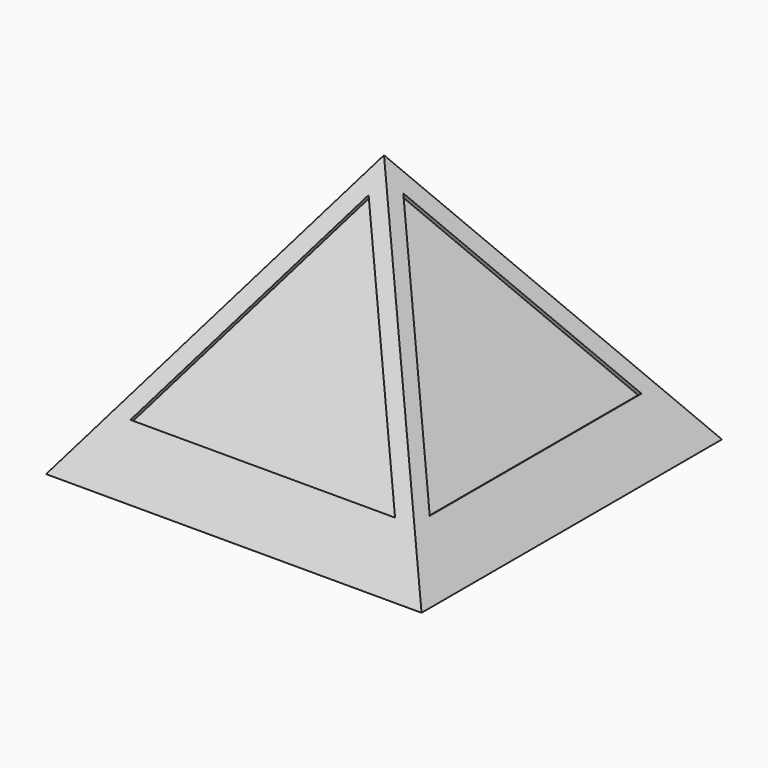
from build123d import *

# Parameters (mm, degrees)
F3_W      = 90
F3_H      = 90
F8_W      = 82
F8_H      = 82
F14_DEPTH = 1
F15_START = -2
F15_DEPTH = 3
F17_DEPTH = 1
F18_START = -2
F18_DEPTH = 3
F20_DEPTH = 1
F21_START = -2
F21_DEPTH = 3
F23_DEPTH = 1
F24_START = -2
F24_DEPTH = 3


with BuildPart() as f6:
    # F3 (on Top) → F6 section 0
    with BuildSketch(Plane.XY, mode=Mode.PRIVATE) as f6_s0:
        Rectangle(F3_W, F3_H)
    loft([f6_s0.sketch, Vertex(0, 0, 63.6396103068)])

    # F8 (on Top) → F10 section 0
    with BuildSketch(Plane.XY, mode=Mode.PRIVATE) as f10_s0:
        Rectangle(F8_W, F8_H)
    loft([f10_s0.sketch, Vertex(0, 0, 57.9827560573)], mode=Mode.SUBTRACT)

    # F13 (on offset) → F14 (cut)
    with BuildSketch(Plane(origin=(0, -30, 21.2132034356), x_dir=(1, 0, 0), z_dir=(0, -0.8164965809, 0.5773502692))):
        Polygon((31.7209438086, -10.9807621135), (0, 43.9615242271), (-31.7209438086, -10.9807621135), align=None)
    extrude(amount=-F14_DEPTH, mode=Mode.SUBTRACT)

    # F13 (on offset) → F15 (cut)
    with BuildSketch(Plane(origin=(0, -30, 21.2132034356), x_dir=(1, 0, 0), z_dir=(0, -0.8164965809, 0.5773502692)).offset(F15_START)):
        Polygon((31.7209438086, -10.9807621135), (0, 43.9615242271), (-31.7209438086, -10.9807621135), align=None)
    extrude(amount=-F15_DEPTH, mode=Mode.SUBTRACT)

    # F16 (on offset) → F17 (cut)
    with BuildSketch(Plane(origin=(-30, 0, 21.2132034356), x_dir=(0, -1, 0), z_dir=(-0.8164965809, 0, 0.5773502692))):
        Polygon((31.7209438086, -10.9807621135), (0, 43.9615242271), (-31.7209438086, -10.9807621135), align=None)
    extrude(amount=-F17_DEPTH, mode=Mode.SUBTRACT)

    # F16 (on offset) → F18 (cut)
    with BuildSketch(Plane(origin=(-30, 0, 21.2132034356), x_dir=(0, -1, 0), z_dir=(-0.8164965809, 0, 0.5773502692)).offset(F18_START)):
        Polygon((31.7209438086, -10.9807621135), (0, 43.9615242271), (-31.7209438086, -10.9807621135), align=None)
    extrude(amount=-F18_DEPTH, mode=Mode.SUBTRACT)

    # F19 (on face) → F20 (cut)
    with BuildSketch(Plane(origin=(0, 30, 21.2132034356), x_dir=(-1, 0, 0), z_dir=(0, 0.8164965809, 0.5773502692))):
        Polygon((31.7209438086, -10.9807621135), (0, 43.9615242271), (-31.7209438086, -10.9807621135), align=None)
    extrude(amount=-F20_DEPTH, mode=Mode.SUBTRACT)

    # F19 (on face) → F21 (cut)
    with BuildSketch(Plane(origin=(0, 30, 21.2132034356), x_dir=(-1, 0, 0), z_dir=(0, 0.8164965809, 0.5773502692)).offset(F21_START)):
        Polygon((31.7209438086, -10.9807621135), (0, 43.9615242271), (-31.7209438086, -10.9807621135), align=None)
    extrude(amount=-F21_DEPTH, mode=Mode.SUBTRACT)

    # F22 (on face) → F23 (cut)
    with BuildSketch(Plane(origin=(30, 0, 21.2132034356), x_dir=(0, 1, 0), z_dir=(0.8164965809, 0, 0.5773502692))):
        Polygon((31.7209438086, -10.9807621135), (0, 43.9615242271), (-31.7209438086, -10.9807621135), align=None)
    extrude(amount=-F23_DEPTH, mode=Mode.SUBTRACT)

    # F22 (on face) → F24 (cut)
    with BuildSketch(Plane(origin=(30, 0, 21.2132034356), x_dir=(0, 1, 0), z_dir=(0.8164965809, 0, 0.5773502692)).offset(F24_START)):
        Polygon((31.7209438086, -10.9807621135), (0, 43.9615242271), (-31.7209438086, -10.9807621135), align=None)
    extrude(amount=-F24_DEPTH, mode=Mode.SUBTRACT)


solid = f6.part
